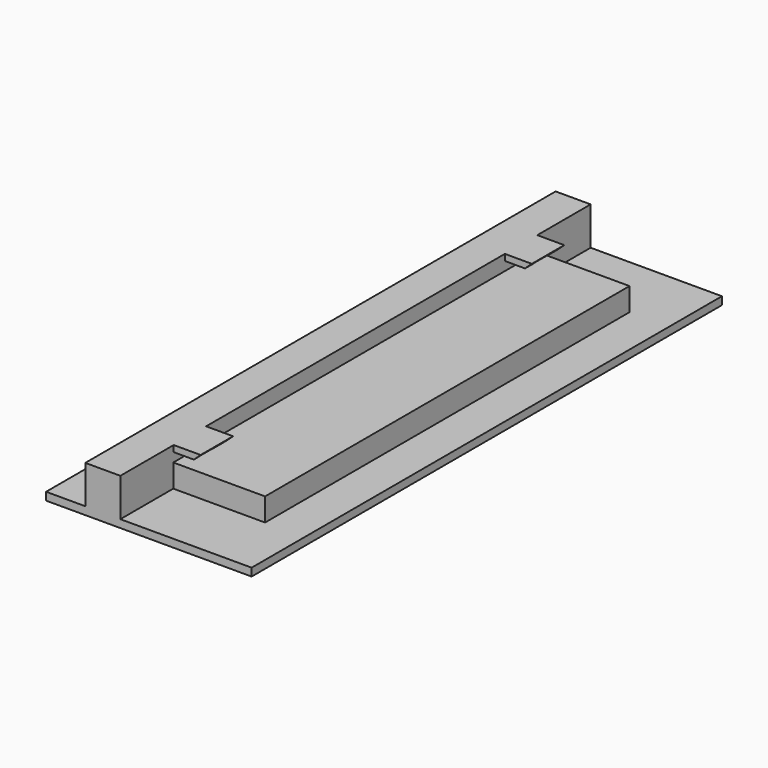
from build123d import *

# Parameters (mm, degrees)
F0_W      = 78.6
F0_H      = 224.8
F1_DEPTH  = 3
F2_W      = 13.4
F2_H      = 14.6
F3_DEPTH  = 224.8
F5_W      = 35.1
F5_H      = 8.8
F6_DEPTH  = 174
F8_DEPTH  = 15.5
F12_DEPTH = 7.4
F15_DEPTH = 7.4


with BuildPart() as f1:
    # F0 (on Top) → F1 (new body)
    with BuildSketch(Plane.XY):
        Rectangle(F0_W, F0_H)
    extrude(amount=F1_DEPTH)

    # F2 (on face) → F3 (join, through all)
    with BuildSketch(Plane.XZ.offset(112.4)):
        with Locations((-17.6, 10.3)):
            Rectangle(F2_W, F2_H)
    extrude(amount=-F3_DEPTH)

    # F5 (on offset) → F6 (join)
    with BuildSketch(Plane.XZ.offset(86.9)):
        with Locations((6.65, 7.4)):
            Rectangle(F5_W, F5_H)
    extrude(amount=-F6_DEPTH)

    # F7 (on offset) → F8 (join)
    with BuildSketch(Plane.XZ.offset(86.9)):
        Polygon((-10.9, 17.6), (-10.9, 15.2), (-3.2, 15.2), (-0.6, 17.6), align=None)
    extrude(amount=-F8_DEPTH)

    # F9: F1 across plane


with BuildPart() as f1_1:
    add(f1.part)
    add(f1.part.mirror(Plane.XZ))

    # F11 (on offset) → F12 (cut)
    with BuildSketch(Plane.XZ.offset(85.2)):
        Polygon((-6.8416666667, 16.9), (-6.8416666667, 15.2), (-3.2, 15.2), (-2.4416666667, 15.9), (-3.7416666667, 15.9), (-3.7416666667, 16.9), align=None)
    extrude(amount=-F12_DEPTH, mode=Mode.SUBTRACT)

    # F14 (on offset) → F15 (cut)
    with BuildSketch(Plane.XZ.offset(-75.4)):
        Polygon((-6.8416666667, 16.9), (-6.8416666667, 15.2), (-3.2, 15.2), (-2.4416666667, 15.9), (-3.7416666667, 15.9), (-3.7416666667, 16.9), align=None)
    extrude(amount=-F15_DEPTH, mode=Mode.SUBTRACT)


solid = f1_1.part
